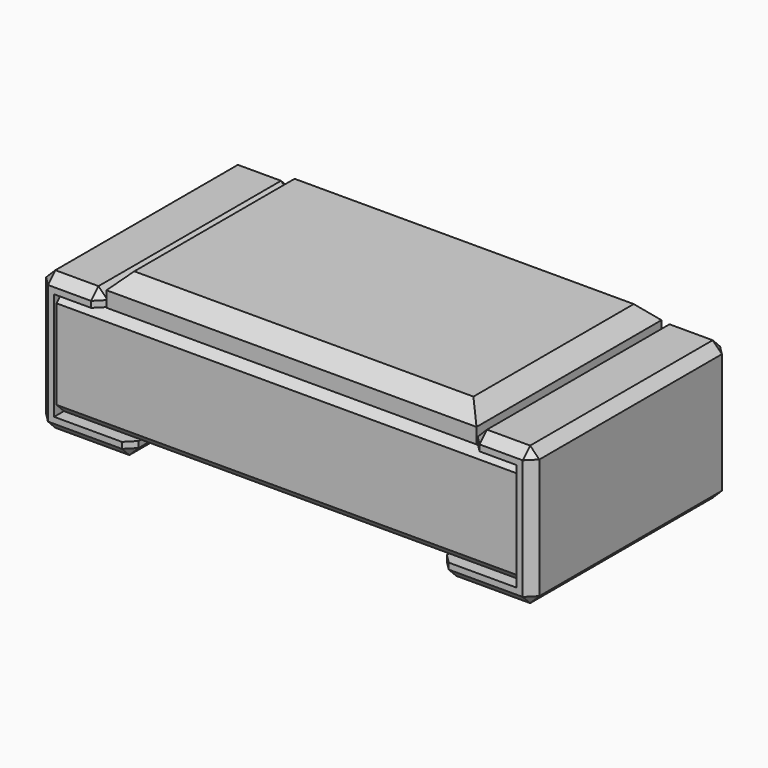
from build123d import *

# Parameters (mm, degrees)
BOX_W                          = 1.5
BOX_H                          = 0.78
BOX_DEPTH                      = 0.35
CHAMFER_SIZE                   = 0.03
BOX001_W                       = 1.2
BOX001_H                       = 0.75
BOX001_DEPTH                   = 0.1
CHAMFER002_SIZE                = 0.05
EXTRUDE_DEPTH                  = 0.8
EXTRUDE_ONTO_SKETCH_ROLL_ANGLE = 90
CHAMFER001_SIZE                = 0.03


with BuildPart() as chamferbody:
    # Box → Box (new body)
    with BuildSketch(Plane(origin=(-0.75, 0.01, 0.05), x_dir=(1, 0, 0), z_dir=(0, 0, 1))):
        with Locations((0.75, 0.39)):
            Rectangle(BOX_W, BOX_H)
    extrude(amount=BOX_DEPTH)

    # Chamfer
    chamfer_edges = [chamferbody.edges().sort_by_distance(p)[0] for p in [
        (0, 0.01, 0.05),
        (0, 0.01, 0.4),
        (0, 0.79, 0.05),
        (0, 0.79, 0.4),
    ]]
    chamfer(chamfer_edges, length=CHAMFER_SIZE)


with BuildPart() as chamfer002:
    # Box001 → Box001 (new body)
    with BuildSketch(Plane(origin=(-0.6, 0.025, 0.4), x_dir=(1, 0, 0), z_dir=(0, 0, 1))):
        with Locations((0.6, 0.375)):
            Rectangle(BOX001_W, BOX001_H)
    extrude(amount=BOX001_DEPTH)

    # Chamfer002
    chamfer002_edges = [chamfer002.edges().sort_by_distance(p)[0] for p in [
        (-0.6, 0.4, 0.5),
        (0.6, 0.4, 0.5),
        (0, 0.025, 0.5),
        (0, 0.775, 0.5),
    ]]
    chamfer(chamfer002_edges, length=CHAMFER002_SIZE)


with BuildPart() as chamferpads:
    # Sketch as drawn → Extrude (new)
    with BuildSketch(Plane.XY):
        Polygon((-0.5, 0), (-0.8, 0), (-0.8, 0.45), (-0.6, 0.45), (-0.6, 0.4), (-0.75, 0.4), (-0.75, 0.05), (-0.5, 0.05), align=None)
    extrude(amount=-EXTRUDE_DEPTH)


with BuildPart() as chamferpads_1:
    # Extrude onto Sketch roll: moved
    add(chamferpads.part.rotate(Axis((0, 0, 0), (1, 0, 0)), EXTRUDE_ONTO_SKETCH_ROLL_ANGLE))


with BuildPart() as chamferpads_2:
    # Extrude onto Sketch placement: moved
    add(chamferpads_1.part)

    # Chamfer001
    chamfer001_edges = [chamferpads_2.edges().sort_by_distance(p)[0] for p in [
        (-0.5, 0.4, 0),
        (-0.8, 0.4, 0),
        (-0.65, 0, 0),
        (-0.65, 0.8, 0),
        (-0.8, 0.4, 0.45),
        (-0.8, 0, 0.225),
        (-0.8, 0.8, 0.225),
        (-0.6, 0.4, 0.45),
        (-0.7, 0, 0.45),
        (-0.7, 0.8, 0.45),
        (-0.6, 0, 0.425),
        (-0.6, 0.8, 0.425),
        (-0.5, 0, 0.025),
        (-0.5, 0.8, 0.025),
    ]]
    chamfer(chamfer001_edges, length=CHAMFER001_SIZE)


with BuildPart() as part_mirroring:
    # Part__Mirroring: instance of ChamferPads
    add(chamferpads_2.part.mirror(Plane(origin=(0, 0, 0), x_dir=(0, -1, 0), z_dir=(1, 0, 0))))


with BuildPart() as fusion001:
    # Fusion base: copy of ChamferPads
    add(chamferpads_2.part)

    # Fusion: union Part__Mirroring
    add(part_mirroring.part)

    # Fusion001: union ChamferBody, Chamfer002
    add(chamferbody.part)
    add(chamfer002.part)


with BuildPart() as fusion001_1:
    # Fusion001 placement: moved
    add(fusion001.part.moved(Location((0, -0.4, 0))))


solid = fusion001_1.part
